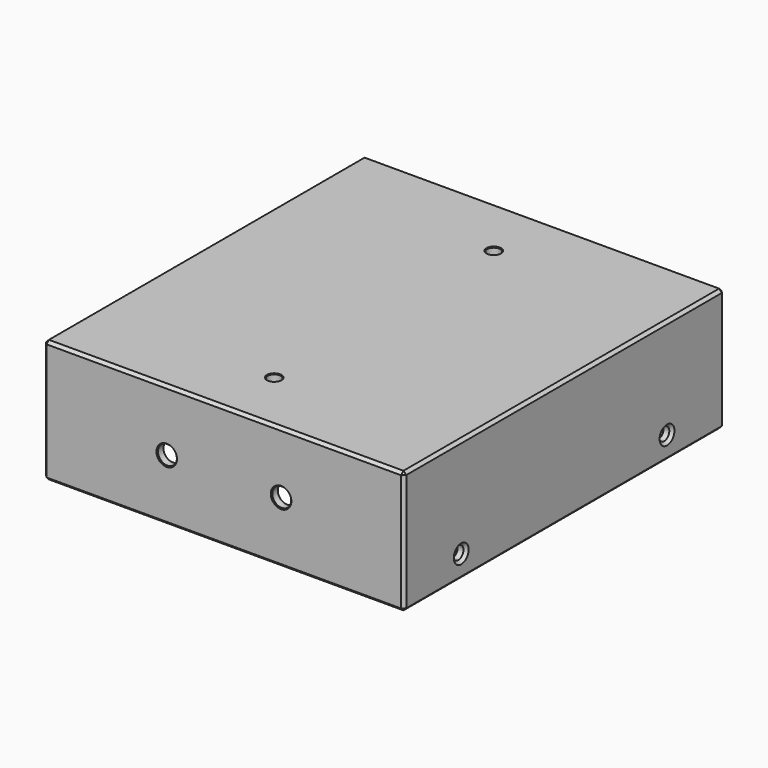
from build123d import *

# Parameters (mm, degrees)
SKETCH_W           = 126
SKETCH_H           = 140
PAD_DEPTH          = 43
THICKNESS_T        = -3
CHAMFER_SIZE       = 2
SKETCH001_R        = 2.25
POCKET_DEPTH       = 126.001
CHAMFER001_SIZE    = 1
SKETCH002_R        = 3.3
POCKET001_DEPTH    = 5
CHAMFER002_SIZE    = 0.3
SKETCH003_R        = 2.3
POCKET002_DEPTH    = 3.001
CHAMFER003_SIZE    = 0.25
POCKET003_DEPTH    = 13.5
POLARPATTERN_COUNT = 12
ARRAY_Y_COUNT      = 2
ARRAY_Y_PITCH      = 96


with BuildPart() as cap:
    # Sketch → Pad (new body)
    with BuildSketch(Plane.XY):
        Rectangle(SKETCH_W, SKETCH_H)
    extrude(amount=PAD_DEPTH)

    # Thickness
    thickness_openings = [cap.faces().sort_by_distance(p)[0] for p in [
        (0, 0, 0),
    ]]
    offset(amount=THICKNESS_T, openings=thickness_openings, kind=Kind.INTERSECTION)

    # Chamfer
    chamfer_edges = [cap.edges().sort_by_distance(p)[0] for p in [
        (-60, -67, 20),
        (-60, 0, 40),
        (0, -67, 40),
        (-60, 67, 20),
        (0, 67, 40),
        (60, 67, 20),
        (60, 0, 40),
        (60, -67, 20),
    ]]
    chamfer(chamfer_edges, length=CHAMFER_SIZE)

    # Sketch001 (on Face13 of Chamfer) → Pocket (cut, through all)
    with BuildSketch(Plane(origin=(-63, 0, 0), x_dir=(0, -1, 0), z_dir=(-1, 0, 0))):
        with Locations((-45, 8)):
            Circle(SKETCH001_R)
        with Locations((45, 8)):
            Circle(SKETCH001_R)
    extrude(amount=-POCKET_DEPTH, mode=Mode.SUBTRACT)

    # Chamfer001
    chamfer001_edges = [cap.edges().sort_by_distance(p)[0] for p in [
        (-63, -70, 21.5),
        (-63, 0, 0),
        (-63, 0, 43),
        (-63, 70, 21.5),
        (-63, -42.75, 8),
        (-63, 47.25, 8),
        (63, -70, 21.5),
        (0, -70, 0),
        (0, -70, 43),
        (63, 70, 21.5),
        (63, 0, 0),
        (63, 0, 43),
        (63, -42.75, 8),
        (63, 47.25, 8),
        (0, 70, 0),
        (0, 70, 43),
    ]]
    chamfer(chamfer001_edges, length=CHAMFER001_SIZE)

    # Sketch002 (on Face18 of Chamfer001) → Pocket001 (cut)
    with BuildSketch(Plane.XZ.offset(70)):
        with Locations((-20, 21.5)):
            Circle(SKETCH002_R)
        with Locations((20, 21.5)):
            Circle(SKETCH002_R)
    extrude(amount=-POCKET001_DEPTH, mode=Mode.SUBTRACT)

    # Chamfer002
    chamfer002_edges = [cap.edges().sort_by_distance(p)[0] for p in [
        (-23.3, -70, 21.5),
        (-16.7, -68.5, 21.5),
        (-23.3, -67, 21.5),
        (16.7, -70, 21.5),
        (23.3, -68.5, 21.5),
        (16.7, -67, 21.5),
    ]]
    chamfer(chamfer002_edges, length=CHAMFER002_SIZE)

    # Sketch003 (on Face20 of Chamfer002) → Pocket002 (cut, through all)
    with BuildSketch(Plane(origin=(0, 0, 40), x_dir=(1, 0, 0), z_dir=(0, 0, -1))):
        with Locations((0, 48)):
            Circle(SKETCH003_R)
        with Locations((0, -48)):
            Circle(SKETCH003_R)
    extrude(amount=-POCKET002_DEPTH, mode=Mode.SUBTRACT)

    # Chamfer003
    chamfer003_edges = [cap.edges().sort_by_distance(p)[0] for p in [
        (-2.3, -48, 40),
        (2.3, -48, 41.5),
        (-2.3, -48, 43),
        (-2.3, 48, 40),
        (2.3, 48, 41.5),
        (-2.3, 48, 43),
    ]]
    chamfer(chamfer003_edges, length=CHAMFER003_SIZE)


with BuildPart() as optional_load_spreader_array:
    # Sketch004 → Revolution (revolve)
    with BuildSketch(Plane.YZ):
        Polygon((2.25, -17.5), (7.25, -17.5), (16, -4), (16, 0), (2.25, 0), align=None)
    revolve(axis=Axis((0, 0, 0), (0, 0, 1)))

    # Sketch005 (on Face1 of Revolution) → Pocket003 (cut)
    with BuildSketch(Plane.YX.offset(17.5)):
        with BuildLine():
            ThreePointArc((2.249129, 6.892309), (1.877252, 7.002744), (1.5, 7.09313))
            Line((1.5, 15.929532), (1.5, 7.09313))
            ThreePointArc((6.667234, 14.54469), (4.141905, 15.454599), (1.5, 15.929532))
            Line((2.249129, 6.892309), (6.667234, 14.54469))
        make_face()
    pocket003 = extrude(amount=-POCKET003_DEPTH, mode=Mode.SUBTRACT)

    # PolarPattern: Pocket003 ×12 about axis
    polarpattern_axis = Axis((0, 0, -17.5), (0, 0, -1))
    for i in range(1, POLARPATTERN_COUNT):
        add(pocket003.rotate(polarpattern_axis, i * 360 / POLARPATTERN_COUNT), mode=Mode.SUBTRACT)


with BuildPart() as optional_load_spreader_array_1:
    # Body001 placement: moved
    add(optional_load_spreader_array.part.moved(Location((0, -48, 39.9))))

    # Array Y: Optional load spreader array ×2


with BuildPart() as optional_load_spreader_array_2:
    add(optional_load_spreader_array_1.part)
    with Locations(*[(0, i * ARRAY_Y_PITCH, 0) for i in range(1, ARRAY_Y_COUNT)]):
        add(optional_load_spreader_array_1.part)


solid = Compound([cap.part, optional_load_spreader_array_2.part])
